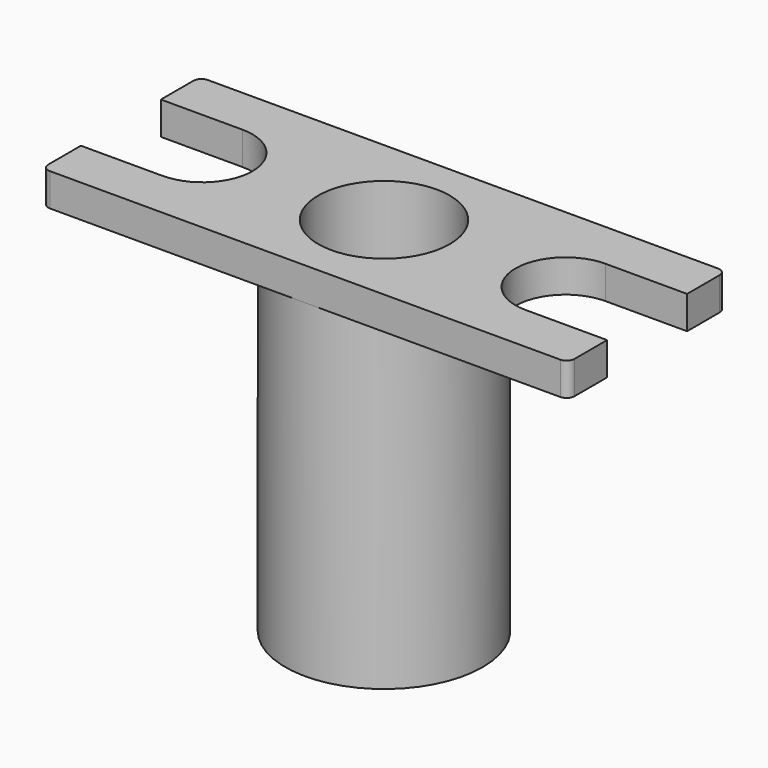
from build123d import *

# Parameters (mm, degrees)
F0_R     = 19.05
F0_R_2   = 4.7625
F1_DEPTH = 69.85
F2_R     = 12.7
F3_DEPTH = 63.5
F4_R     = 12.7
F5_DEPTH = 6.35
F7_DEPTH = 6.35


with BuildPart() as f1:
    # F0 (on Top) → F1 (new body)
    with BuildSketch(Plane.XY):
        Circle(F0_R)
        Circle(F0_R_2, mode=Mode.SUBTRACT)
    extrude(amount=-F1_DEPTH)

    # F2 (on face) → F3 (cut)
    with BuildSketch(Plane.XY):
        Circle(F2_R)
    extrude(amount=-F3_DEPTH, mode=Mode.SUBTRACT)

    # F4 (on face) → F5 (join)
    with BuildSketch(Plane.XY):
        with BuildLine():
            Line((-49.276, -19.05), (49.276, -19.05))
            ThreePointArc((49.276, -19.05), (50.353631, -18.603631), (50.8, -17.526))
            Line((50.8, -17.526), (50.8, 17.526))
            ThreePointArc((50.8, 17.526), (50.353631, 18.603631), (49.276, 19.05))
            Line((49.276, 19.05), (-49.276, 19.05))
            ThreePointArc((-49.276, 19.05), (-50.353631, 18.603631), (-50.8, 17.526))
            Line((-50.8, 17.526), (-50.8, -17.526))
            ThreePointArc((-50.8, -17.526), (-50.353631, -18.603631), (-49.276, -19.05))
        make_face()
        Circle(F4_R, mode=Mode.SUBTRACT)
    extrude(amount=-F5_DEPTH)

    # F6 (on face) → F7 (cut, through all)
    with BuildSketch(Plane.XY):
        with BuildLine():
            Line((35.052, -9.652), (50.8, -9.652))
            Line((50.8, -9.652), (50.8, 9.652))
            Line((50.8, 9.652), (35.052, 9.652))
            ThreePointArc((35.052, 9.652), (25.4, 0), (35.052, -9.652))
        make_face()
        with BuildLine():
            Line((-50.8, -9.652), (-35.052, -9.652))
            ThreePointArc((-35.052, -9.652), (-25.4, 0), (-35.052, 9.652))
            Line((-35.052, 9.652), (-50.8, 9.652))
            Line((-50.8, 9.652), (-50.8, -9.652))
        make_face()
    extrude(amount=-F7_DEPTH, mode=Mode.SUBTRACT)


solid = f1.part
